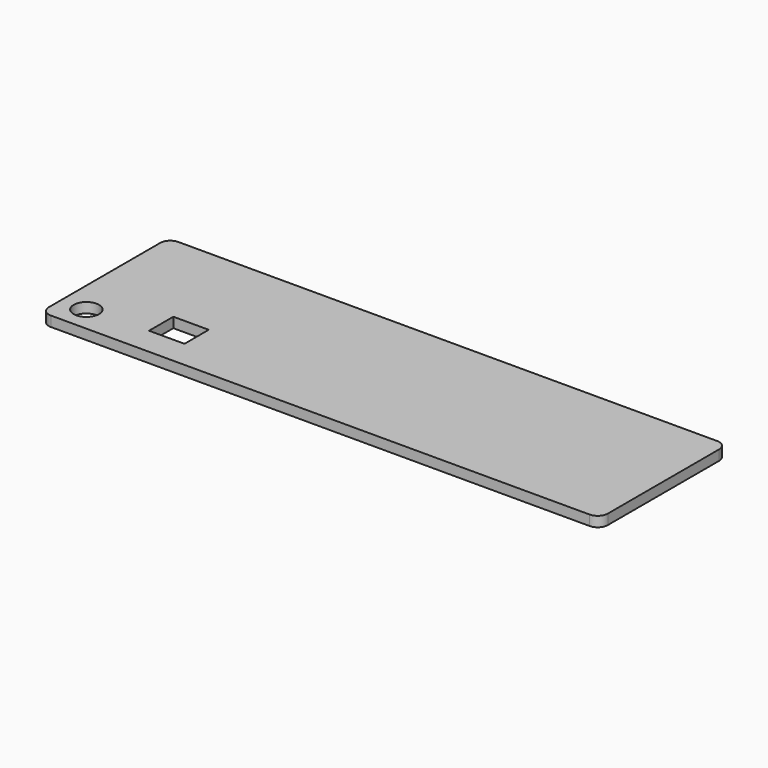
from build123d import *

# Parameters (mm, degrees)
F0_W     = 221
F0_H     = 63
F0_R     = 5
F0_W_2   = 14
F0_H_2   = 12
F1_DEPTH = 4
F2_R     = 4


with BuildPart() as f1:
    # F0 (on Top) → F1 (new body)
    with BuildSketch(Plane.XY):
        Rectangle(F0_W, F0_H)
        with Locations((-100.5, -21.5)):
            Circle(F0_R, mode=Mode.SUBTRACT)
        with Locations((-69.5, -14.5)):
            Rectangle(F0_W_2, F0_H_2, mode=Mode.SUBTRACT)
    extrude(amount=F1_DEPTH)

    # F2
    f2_edges = [f1.edges().sort_by_distance(p)[0] for p in [
        (110.5, 31.5, 2),
        (110.5, -31.5, 2),
        (-110.5, -31.5, 2),
        (-110.5, 31.5, 2),
    ]]
    fillet(f2_edges, radius=F2_R)


solid = f1.part
